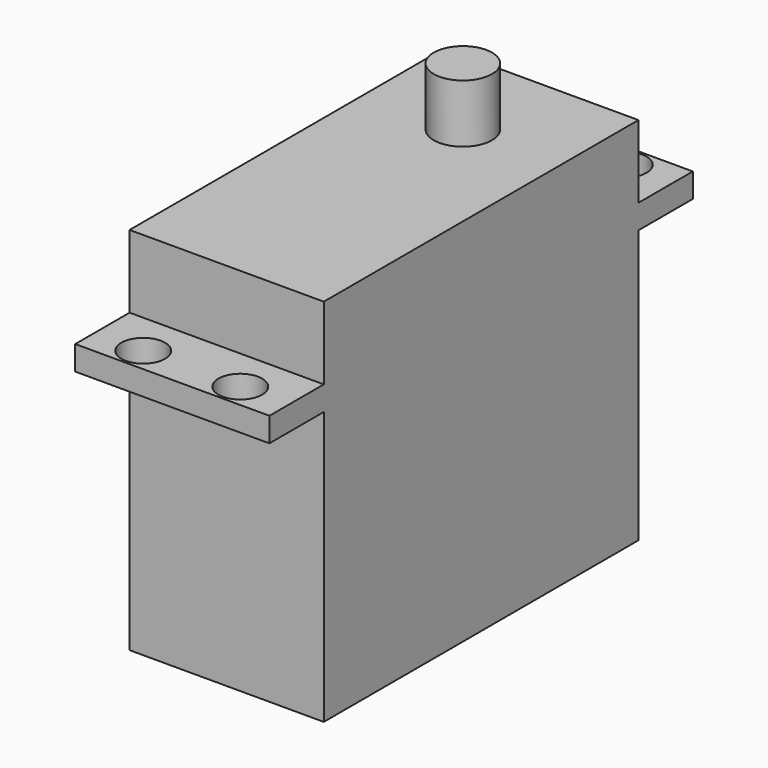
from build123d import *

# Parameters (mm, degrees)
F0_W     = 20
F0_H     = 40.5
F1_DEPTH = 38.1
F3_START = 28.1
F2_W     = 20
F2_H     = 54.5
F3_DEPTH = 2.5
F4_R     = 2.25
F5_DEPTH = 2.5
F6_R     = 3
F7_DEPTH = 6


with BuildPart() as f1:
    # F0 (on Top) → F1 (new body)
    with BuildSketch(Plane.XY):
        Rectangle(F0_W, F0_H)
    extrude(amount=F1_DEPTH)

    # F2 (on Top) → F3 (join)
    with BuildSketch(Plane.XY.offset(F3_START)):
        Rectangle(F2_W, F2_H)
    extrude(amount=F3_DEPTH)

    # F4 (on face) → F5 (cut)
    with BuildSketch(Plane.XY.offset(30.6)):
        with Locations((-5, 24.75)):
            Circle(F4_R)
        with Locations((5, 24.75)):
            Circle(F4_R)
        with Locations((5, -24.75)):
            Circle(F4_R)
        with Locations((-5, -24.75)):
            Circle(F4_R)
    extrude(amount=-F5_DEPTH, mode=Mode.SUBTRACT)

    # F6 (on face) → F7 (join)
    with BuildSketch(Plane.XY.offset(38.1)):
        with Locations((0, 10.15)):
            Circle(F6_R)
    extrude(amount=F7_DEPTH)


solid = f1.part
